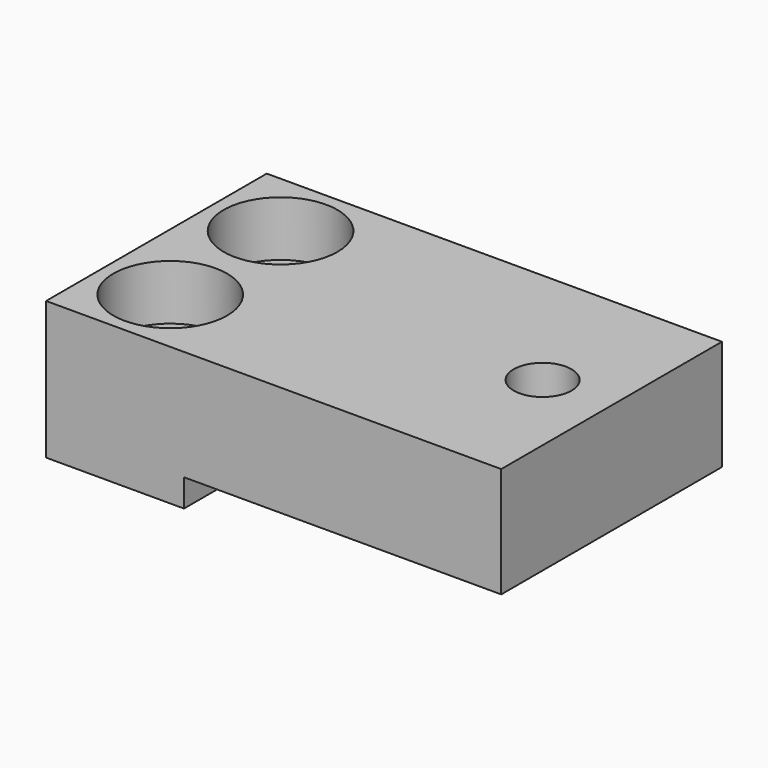
from build123d import *

# Parameters (mm, degrees)
F0_W           = 10
F0_H           = 20
F1_DEPTH       = 10
F0_W_2         = 23
F2_DEPTH       = 8
F3_D           = 4.2
F4_D           = 4.5
F4_CBORE_D     = 8.25
F4_CBORE_DEPTH = 4


with BuildPart() as f1:
    # F0 (on Top) → F1 (new body)
    with BuildSketch(Plane.XY):
        with Locations((-11.5, 0)):
            Rectangle(F0_W, F0_H)
    extrude(amount=-F1_DEPTH)

    # F0 (on Top) → F2 (join)
    with BuildSketch(Plane.XY):
        with Locations((5, 0)):
            Rectangle(F0_W_2, F0_H)
    extrude(amount=-F2_DEPTH)

    # F3 (through all)
    with Locations(Plane.XY):
        with Locations((11.5, 0)):
            Hole(F3_D / 2)

    # F4 (through all)
    with Locations(Plane.XY):
        with Locations((-11.5, 5), (-11.5, -5)):
            CounterBoreHole(F4_D / 2, F4_CBORE_D / 2, F4_CBORE_DEPTH)


solid = f1.part
